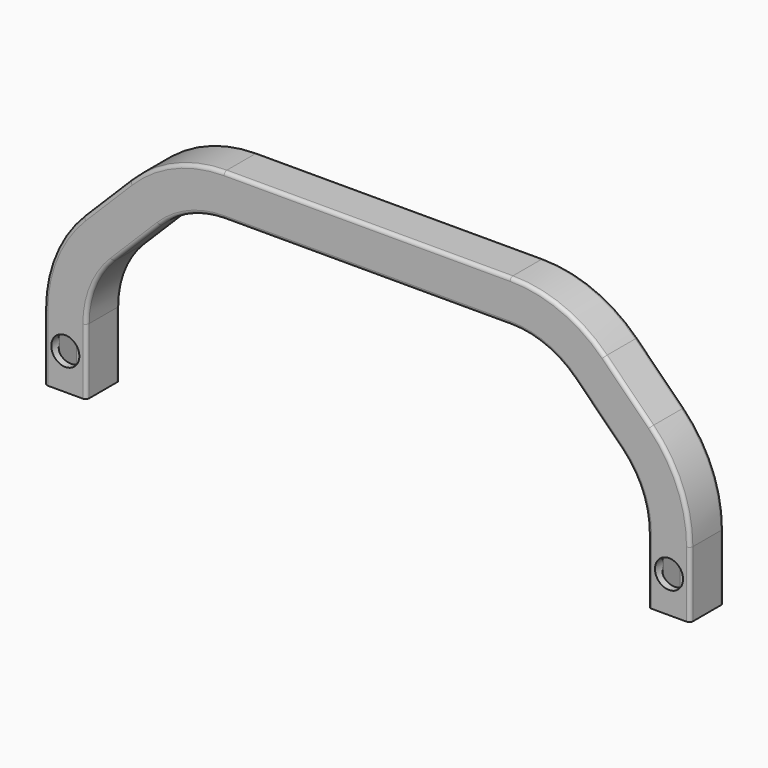
from build123d import *

# Parameters (mm, degrees)
F3_R     = 3.683
F4_DEPTH = 25.4
F5_R     = 6.35
F6_DEPTH = 25.4


with BuildPart() as f2:
    # F2: sweep along a path in F0
    with BuildLine(Plane.XZ) as f2_path:
        Line((0, 0), (0, 29.7579510314))
        ThreePointArc((0, 29.7579510314), (3.8669197484, 49.1982693956), (14.8789755157, 65.6789755157))
        Line((14.8789755157, 65.6789755157), (35.9210244843, 86.7210244843))
        ThreePointArc((35.9210244843, 86.7210244843), (52.4017306044, 97.7330802516), (71.8420489686, 101.6))
        Line((71.8420489686, 101.6), (201.2079510314, 101.6))
        ThreePointArc((201.2079510314, 101.6), (220.6482693956, 97.7330802516), (237.1289755157, 86.7210244843))
        Line((237.1289755157, 86.7210244843), (258.1710244843, 65.6789755157))
        ThreePointArc((258.1710244843, 65.6789755157), (269.1830802516, 49.1982693956), (273.05, 29.7579510314))
        Line((273.05, 29.7579510314), (273.05, 0))
    # F1 (on Top) → F2 (sweep)
    with BuildSketch(Plane.XY):
        with BuildLine():
            ThreePointArc((-9.525, -7.9248), (-9.0563122713, -9.0563122713), (-7.9248, -9.525))
            Line((-7.9248, -9.525), (7.9248, -9.525))
            ThreePointArc((7.9248, -9.525), (9.0563122713, -9.0563122713), (9.525, -7.9248))
            Line((9.525, -7.9248), (9.525, 7.9248))
            ThreePointArc((9.525, 7.9248), (9.0563122713, 9.0563122713), (7.9248, 9.525))
            Line((7.9248, 9.525), (-7.9248, 9.525))
            ThreePointArc((-7.9248, 9.525), (-9.0563122713, 9.0563122713), (-9.525, 7.9248))
            Line((-9.525, 7.9248), (-9.525, -7.9248))
        make_face()
        with BuildLine():
            ThreePointArc((-6.35, 4.7498), (-5.8813122713, 5.8813122713), (-4.7498, 6.35))
            Line((-4.7498, 6.35), (4.7498, 6.35))
            ThreePointArc((4.7498, 6.35), (5.8813122713, 5.8813122713), (6.35, 4.7498))
            Line((6.35, 4.7498), (6.35, -4.7498))
            ThreePointArc((6.35, -4.7498), (5.8813122713, -5.8813122713), (4.7498, -6.35))
            Line((4.7498, -6.35), (-4.7498, -6.35))
            ThreePointArc((-4.7498, -6.35), (-5.8813122713, -5.8813122713), (-6.35, -4.7498))
            Line((-6.35, -4.7498), (-6.35, 4.7498))
        make_face(mode=Mode.SUBTRACT)
    sweep(path=f2_path.line)

    # F3 (on Front) → F4 (cut)
    with BuildSketch(Plane.XZ):
        with Locations((0, 16.383)):
            Circle(F3_R)
        with Locations((273.05, 16.383)):
            Circle(F3_R)
    extrude(amount=-F4_DEPTH, mode=Mode.SUBTRACT)

    # F5 (on Front) → F6 (cut)
    with BuildSketch(Plane.XZ):
        with Locations((273.05, 16.383)):
            Circle(F5_R)
        with Locations((0, 16.383)):
            Circle(F5_R)
    extrude(amount=F6_DEPTH, mode=Mode.SUBTRACT)


solid = f2.part
